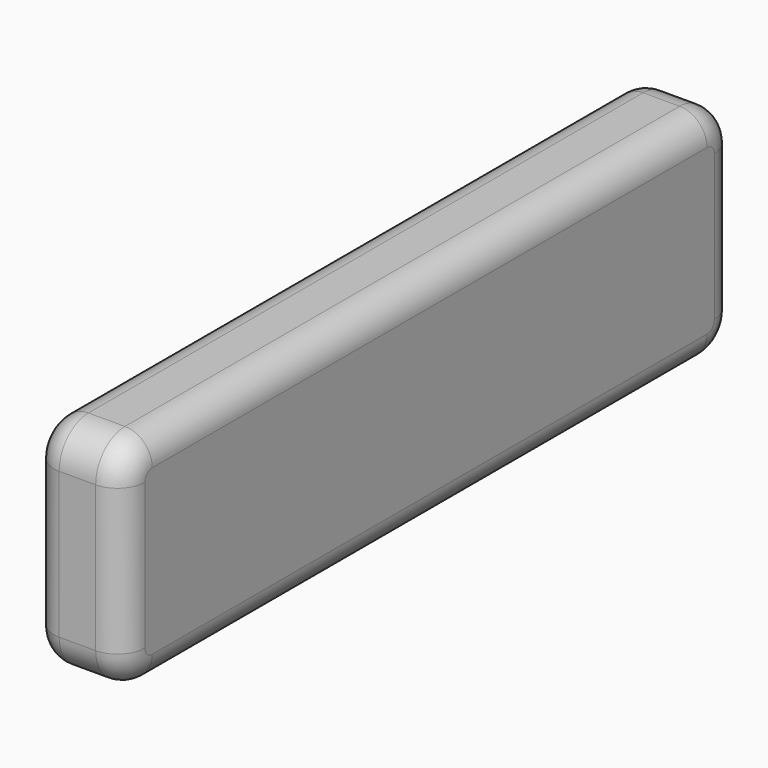
from build123d import *

# Parameters (mm, degrees)
F1_DEPTH = 5
F2_R     = 1.5


with BuildPart() as f1:
    # F0 (on Right) → F1 (new body)
    with BuildSketch(Plane.YZ):
        with BuildLine():
            Line((-19, -6), (19, -6))
            ThreePointArc((19, -6), (20.414214, -5.414214), (21, -4))
            Line((21, -4), (21, 4))
            ThreePointArc((21, 4), (20.414214, 5.414214), (19, 6))
            Line((19, 6), (-19, 6))
            ThreePointArc((-19, 6), (-20.414214, 5.414214), (-21, 4))
            Line((-21, 4), (-21, -4))
            ThreePointArc((-21, -4), (-20.414214, -5.414214), (-19, -6))
        make_face()
    extrude(amount=F1_DEPTH)

    # F2
    f2_edges = [f1.edges().sort_by_distance(p)[0] for p in [
        (5, -20.414214, -5.414214),
        (0, -20.414214, -5.414214),
    ]]
    fillet(f2_edges, radius=F2_R)


solid = f1.part
